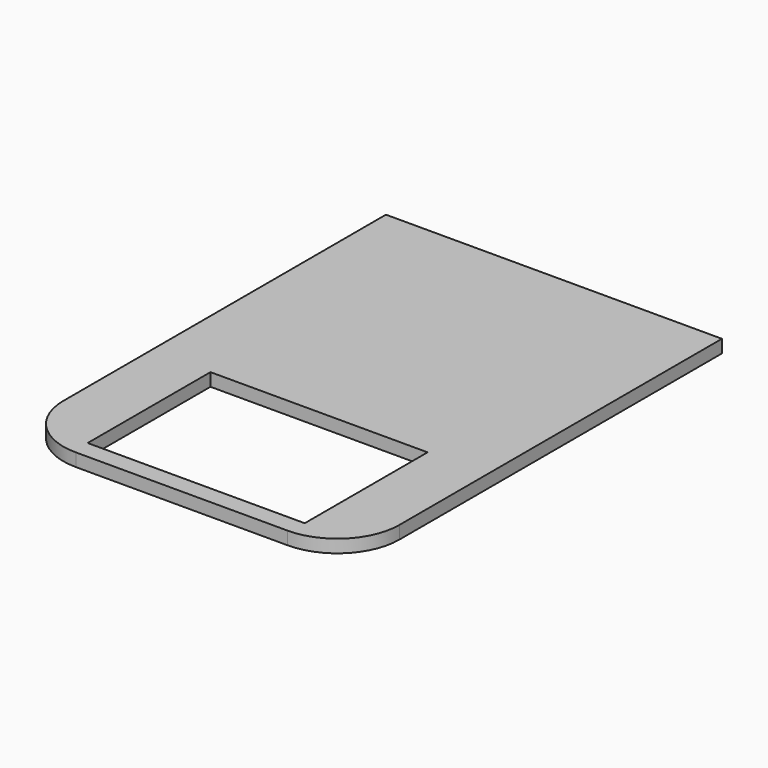
from build123d import *

# Parameters (mm, degrees)
F0_W     = 420
F0_H     = 297
F1_DEPTH = 18
F2_DEPTH = 25


with BuildPart() as f1:
    # F0 (on Top) → F1 (new body)
    with BuildSketch(Plane.XY):
        with BuildLine():
            Line((36.669135, 748.890698), (-613.330865, 748.890698))
            Line((-613.330865, 748.890698), (-613.330865, -31.109302))
            ThreePointArc((-613.330865, -31.109302), (-578.183679, -115.962116), (-493.330865, -151.109302))
            Line((-493.330865, -151.109302), (-83.330865, -151.109302))
            ThreePointArc((-83.330865, -151.109302), (1.521949, -115.962116), (36.669135, -31.109302))
            Line((36.669135, -31.109302), (36.669135, 748.890698))
        make_face()
        with Locations((-288.491384, 32.537884)):
            Rectangle(F0_W, F0_H, mode=Mode.SUBTRACT)
    extrude(amount=F1_DEPTH)

    # F0 (on Top) → F2 (join)
    with BuildSketch(Plane.XY):
        with BuildLine():
            Line((36.669135, 748.890698), (-613.330865, 748.890698))
            Line((-613.330865, 748.890698), (-613.330865, -31.109302))
            ThreePointArc((-613.330865, -31.109302), (-578.183679, -115.962116), (-493.330865, -151.109302))
            Line((-493.330865, -151.109302), (-83.330865, -151.109302))
            ThreePointArc((-83.330865, -151.109302), (1.521949, -115.962116), (36.669135, -31.109302))
            Line((36.669135, -31.109302), (36.669135, 748.890698))
        make_face()
        with Locations((-288.491384, 32.537884)):
            Rectangle(F0_W, F0_H, mode=Mode.SUBTRACT)
    extrude(amount=F2_DEPTH)


solid = f1.part
